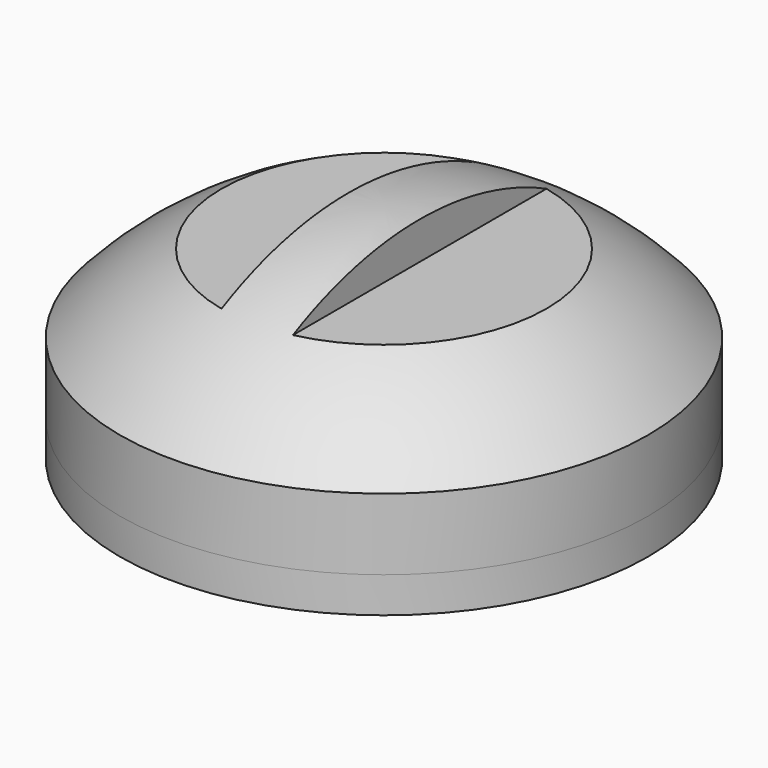
from build123d import *

# Parameters (mm, degrees)
F5_R      = 37
F5_R_2    = 35.5
F6_DEPTH  = 10
F7_R      = 37
F7_R_2    = 32.5
F8_DEPTH  = 5
F4_W      = 20
F4_H      = 50
F9_DEPTH  = 5.5
F11_DEPTH = 10


with BuildPart() as f2:
    # F1 (on Front) → F2 (revolve)
    with BuildSketch(Plane.XZ):
        with BuildLine():
            Line((-37, 0), (0, 0))
            Line((0, 0), (0, 16.45))
            ThreePointArc((0, 16.45), (-20.2460026919, 12.152179307), (-37, 0))
        make_face()
    revolve(axis=Axis((0, 0, 8.225), (0, 0, 1)))

    # F5 (on Top) → F6 (join)
    with BuildSketch(Plane.XY):
        Circle(F5_R)
        Circle(F5_R_2, mode=Mode.SUBTRACT)
    extrude(amount=-F6_DEPTH)

    # F7 (on face) → F8 (join)
    with BuildSketch(Plane(origin=(0, 0, -10), x_dir=(1, 0, 0), z_dir=(0, 0, -1))):
        Circle(F7_R)
        Circle(F7_R_2, mode=Mode.SUBTRACT)
    extrude(amount=F8_DEPTH)

    # F4 (on offset) → F9 (cut)
    with BuildSketch(Plane.XY.offset(16.45)):
        with Locations((-15, 0)):
            Rectangle(F4_W, F4_H)
        with Locations((15, 0)):
            Rectangle(F4_W, F4_H)
    extrude(amount=-F9_DEPTH, mode=Mode.SUBTRACT)

    # F10 (on face) → F11 (cut)
    with BuildSketch(Plane(origin=(0, 0, -15), x_dir=(1, 0, 0), z_dir=(0, 0, -1))):
        with BuildLine():
            ThreePointArc((-31.0352267718, -9.6470046761), (-32.4780480974, -1.1943164501), (-31.6599461457, 7.3415127902))
            Line((-31.6599461457, 7.3415127902), (-34.6599461457, 7.3415127902))
            ThreePointArc((-34.6599461457, 7.3415127902), (-35.4051205032, -1.298891462), (-34.0288283151, -9.8614664413))
            Line((-34.0288283151, -9.8614664413), (-31.0352267718, -9.6470046761))
        make_face()
        with BuildLine():
            ThreePointArc((9.6470046761, -31.0352267718), (1.1943164501, -32.4780480974), (-7.3415127902, -31.6599461457))
            Line((-7.3415127902, -31.6599461457), (-7.3415127902, -34.6599461457))
            ThreePointArc((-7.3415127902, -34.6599461457), (1.298891462, -35.4051205032), (9.8614664413, -34.0288283151))
            Line((9.8614664413, -34.0288283151), (9.6470046761, -31.0352267718))
        make_face()
        with BuildLine():
            Line((34.0288283151, 9.8614664413), (31.0352267718, 9.6470046761))
            ThreePointArc((31.0352267718, 9.6470046761), (32.131720076, 4.8787872425), (32.5, 0))
            ThreePointArc((32.5, 0), (32.2893035674, -3.6947090727), (31.6599461457, -7.3415127902))
            Line((31.6599461457, -7.3415127902), (34.6599461457, -7.3415127902))
            ThreePointArc((34.6599461457, -7.3415127902), (35.4051205032, 1.298891462), (34.0288283151, 9.8614664413))
        make_face()
        with BuildLine():
            Line((-9.8614664413, 34.0288283151), (-9.6470046761, 31.0352267718))
            ThreePointArc((-9.6470046761, 31.0352267718), (-1.1943164501, 32.4780480974), (7.3415127902, 31.6599461457))
            Line((7.3415127902, 31.6599461457), (7.3415127902, 34.6599461457))
            ThreePointArc((7.3415127902, 34.6599461457), (-1.298891462, 35.4051205032), (-9.8614664413, 34.0288283151))
        make_face()
    extrude(amount=-F11_DEPTH, mode=Mode.SUBTRACT)


solid = f2.part
